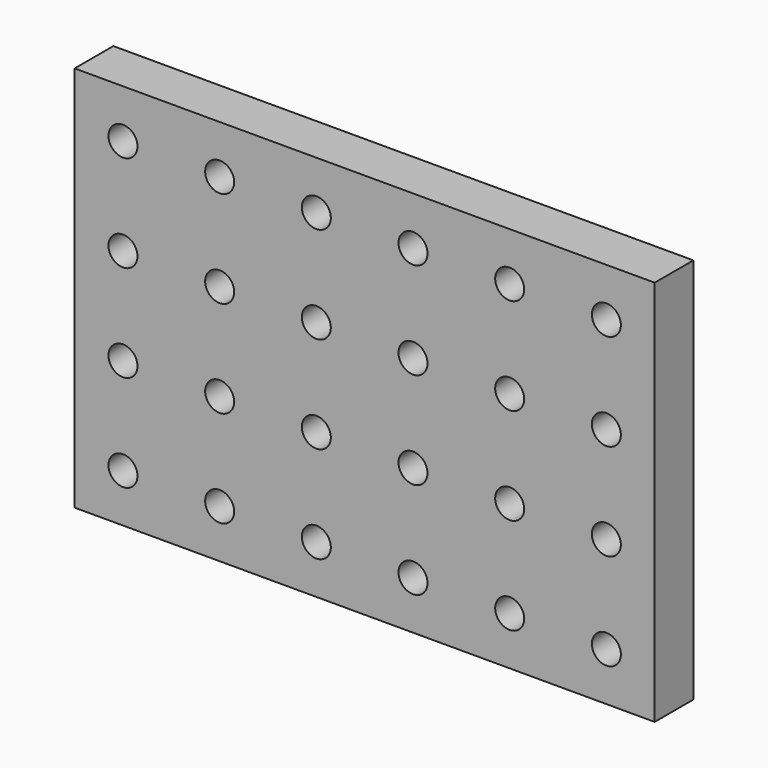
from build123d import *

# Parameters (mm, degrees)
F0_W     = 152.4
F0_H     = 101.6
F2_DEPTH = 12.7
F1_R     = 3.81
F3_DEPTH = 25.4


with BuildPart() as f2:
    # F0 (on Front) → F2 (new body)
    with BuildSketch(Plane.XZ):
        with Locations((76.2, 50.8)):
            Rectangle(F0_W, F0_H)
    extrude(amount=F2_DEPTH)

    # F1 (on face) → F3 (cut)
    with BuildSketch(Plane.XZ):
        with Locations((12.7, 12.7)):
            Circle(F1_R)
        with Locations((12.7, 38.1)):
            Circle(F1_R)
        with Locations((12.7, 63.5)):
            Circle(F1_R)
        with Locations((12.7, 88.9)):
            Circle(F1_R)
        with Locations((38.1, 12.7)):
            Circle(F1_R)
        with Locations((38.1, 38.1)):
            Circle(F1_R)
        with Locations((38.1, 63.5)):
            Circle(F1_R)
        with Locations((38.1, 88.9)):
            Circle(F1_R)
        with Locations((63.5, 12.7)):
            Circle(F1_R)
        with Locations((63.5, 38.1)):
            Circle(F1_R)
        with Locations((63.5, 63.5)):
            Circle(F1_R)
        with Locations((63.5, 88.9)):
            Circle(F1_R)
        with Locations((88.9, 12.7)):
            Circle(F1_R)
        with Locations((88.9, 38.1)):
            Circle(F1_R)
        with Locations((88.9, 63.5)):
            Circle(F1_R)
        with Locations((88.9, 88.9)):
            Circle(F1_R)
        with Locations((114.3, 12.7)):
            Circle(F1_R)
        with Locations((114.3, 38.1)):
            Circle(F1_R)
        with Locations((114.3, 63.5)):
            Circle(F1_R)
        with Locations((114.3, 88.9)):
            Circle(F1_R)
        with Locations((139.7, 12.7)):
            Circle(F1_R)
        with Locations((139.7, 38.1)):
            Circle(F1_R)
        with Locations((139.7, 63.5)):
            Circle(F1_R)
        with Locations((139.7, 88.9)):
            Circle(F1_R)
    extrude(amount=F3_DEPTH, mode=Mode.SUBTRACT)


solid = f2.part
